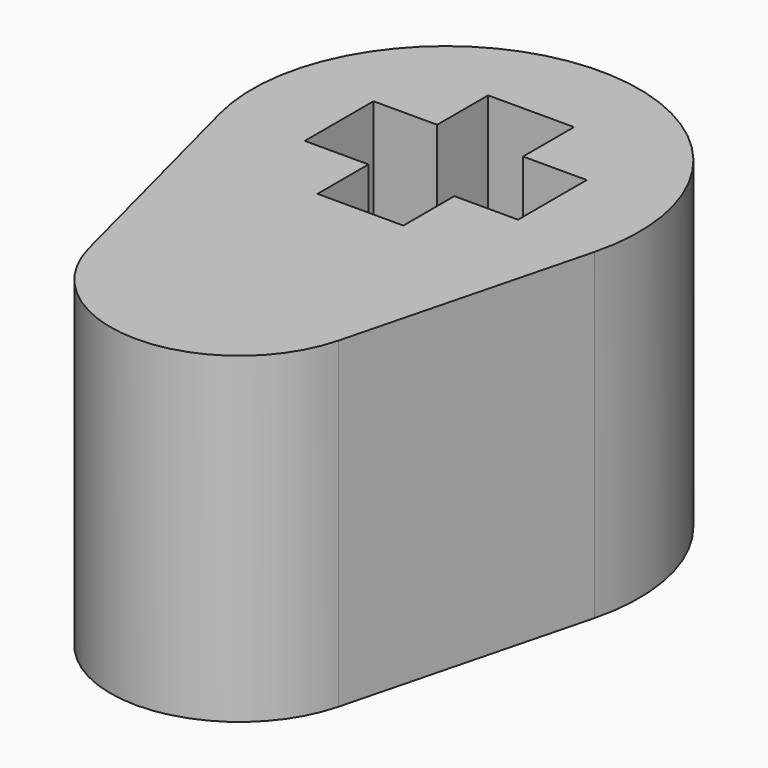
from build123d import *

# Parameters (mm, degrees)
F1_DEPTH = 7.9375


with BuildPart() as f1:
    # F0 (on Top) → F1 (new body)
    with BuildSketch(Plane.XY):
        with BuildLine():
            Line((3.074181, -7.14375), (4.611271, -1.190625))
            ThreePointArc((4.611271, -1.190625), (0, 4.7625), (-4.611271, -1.190625))
            Line((-4.611271, -1.190625), (-3.074181, -7.14375))
            ThreePointArc((-3.074181, -7.14375), (0, -9.525), (3.074181, -7.14375))
        make_face()
        Polygon((-1.057415, 2.625865), (1.057415, 2.625865), (1.057415, 1.057415), (2.625865, 1.057415), (2.625865, -1.057415), (1.057415, -1.057415), (1.057415, -2.625865), (-1.057415, -2.625865), (-1.057415, -1.057415), (-2.625865, -1.057415), (-2.625865, 1.057415), (-1.057415, 1.057415), align=None, mode=Mode.SUBTRACT)
    extrude(amount=F1_DEPTH)


solid = f1.part
